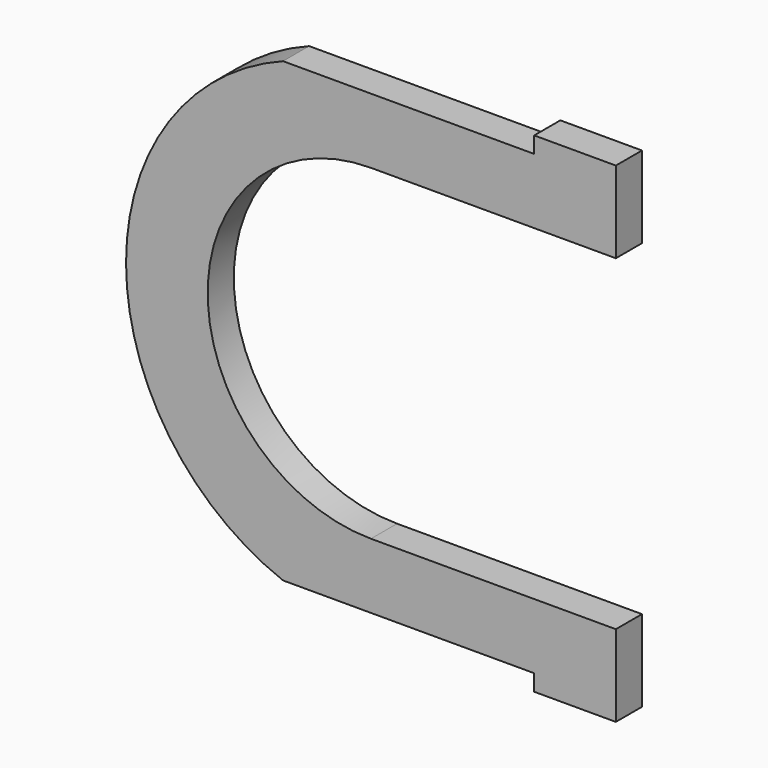
from build123d import *

# Parameters (mm, degrees)
F1_DEPTH = 25.4


with BuildPart() as f1:
    # F0 (on Front) → F1 (new body)
    with BuildSketch(Plane.XZ):
        with BuildLine():
            Line((-68.391593, -177.8), (127, -177.8))
            Line((127, -177.8), (127, -190.5))
            Line((127, -190.5), (190.5, -190.5))
            Line((190.5, -190.5), (190.5, -177.8))
            Line((190.5, -177.8), (190.5, -127))
            Line((190.5, -127), (127, -127))
            Line((127, -127), (0, -127))
            ThreePointArc((0, -127), (-127, 0), (0, 127))
            Line((0, 127), (127, 127))
            Line((127, 127), (190.5, 127))
            Line((190.5, 127), (190.5, 177.8))
            Line((190.5, 177.8), (190.5, 190.5))
            Line((190.5, 190.5), (127, 190.5))
            Line((127, 190.5), (127, 177.8))
            Line((127, 177.8), (-68.391593, 177.8))
            ThreePointArc((-68.391593, 177.8), (-190.5, 0), (-68.391593, -177.8))
        make_face()
    extrude(amount=F1_DEPTH)


solid = f1.part
